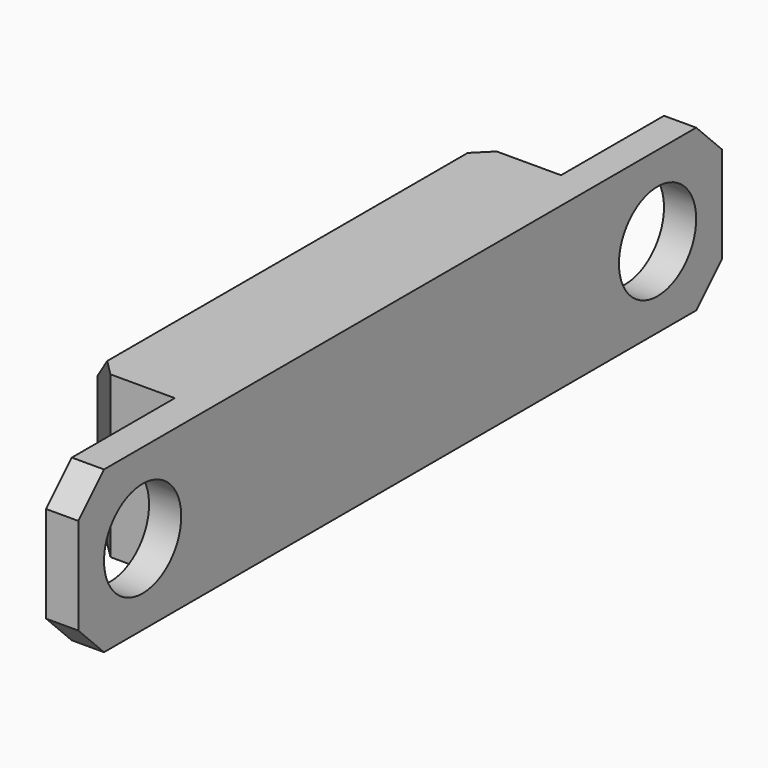
from build123d import *

# Parameters (mm, degrees)
SKETCH003_W     = 5
SKETCH003_H     = 25
SKETCH003_R     = 1.5
PAD001_DEPTH    = 5
SKETCH004_W     = 5
SKETCH004_H     = 5
POCKET002_DEPTH = 4
CHAMFER003_SIZE = 1.5
CHAMFER004_SIZE = 2
CHAMFER005_SIZE = 1


with BuildPart() as part:
    # Sketch003 (on DatumPlane) → Pad001 (new body)
    with BuildSketch(Plane(origin=(0, 0, 0), x_dir=(0, 0, -1), z_dir=(-1, 0, 0))):
        with Locations((-10, 20)):
            Rectangle(SKETCH003_W, SKETCH003_H)
        with Locations((-10, 30)):
            Circle(SKETCH003_R, mode=Mode.SUBTRACT)
        with Locations((-10, 10)):
            Circle(SKETCH003_R, mode=Mode.SUBTRACT)
    extrude(amount=PAD001_DEPTH)

    # Sketch004 (on Face8 of Pad001) → Pocket002 (cut)
    with BuildSketch(Plane(origin=(-5, 0, 0), x_dir=(0, 0, -1), z_dir=(-1, 0, 0))):
        with Locations((-10, 30)):
            Rectangle(SKETCH004_W, SKETCH004_H)
        with Locations((-10, 10)):
            Rectangle(SKETCH004_W, SKETCH004_H)
    extrude(amount=-POCKET002_DEPTH, mode=Mode.SUBTRACT)

    # Chamfer003
    chamfer003_edges = [part.edges().sort_by_distance(p)[0] for p in [
        (-5, -20, 12.5),
        (-5, -20, 7.5),
    ]]
    chamfer(chamfer003_edges, length=CHAMFER003_SIZE)

    # Chamfer004
    chamfer004_edges = [part.edges().sort_by_distance(p)[0] for p in [
        (-5, -12.5, 10),
        (-5, -27.5, 10),
    ]]
    chamfer(chamfer004_edges, length=CHAMFER004_SIZE)

    # Chamfer005
    chamfer005_edges = [part.edges().sort_by_distance(p)[0] for p in [
        (-0.5, -7.5, 7.5),
        (-0.5, -7.5, 12.5),
        (-0.5, -32.5, 7.5),
        (-0.5, -32.5, 12.5),
    ]]
    chamfer(chamfer005_edges, length=CHAMFER005_SIZE)


solid = part.part
